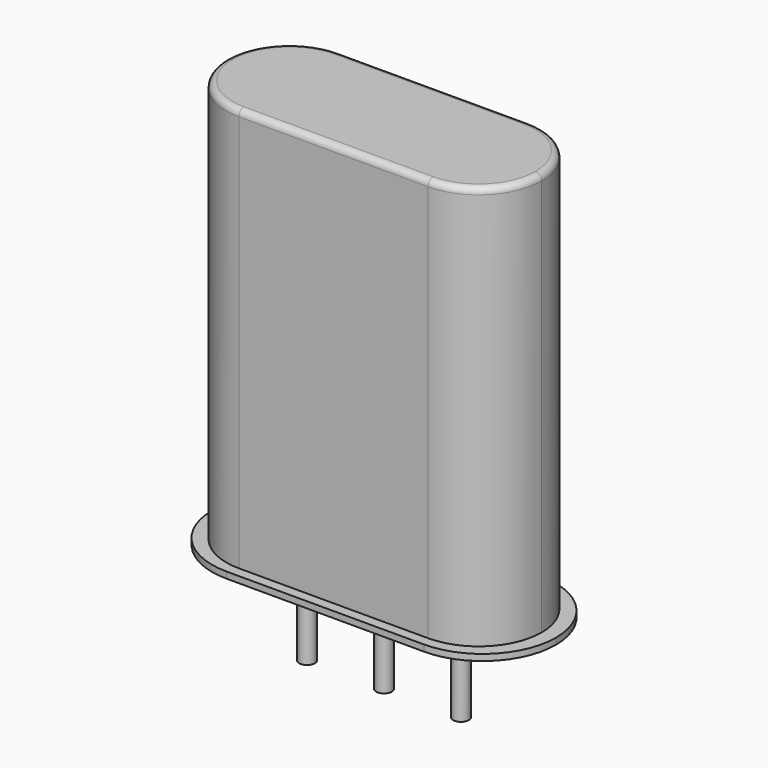
from build123d import *

# Parameters (mm, degrees)
SKETCH_R     = 0.25
PAD_DEPTH    = 3
PAD001_DEPTH = 0.2
PAD002_DEPTH = 13
FILLET_R     = 0.2


with BuildPart() as pad:
    # Sketch → Pad (new body)
    with BuildSketch(Plane.XY.offset(0.1)):
        Circle(SKETCH_R)
        with Locations((4.88, 0)):
            Circle(SKETCH_R)
        with Locations((2.44, 0)):
            Circle(SKETCH_R)
    extrude(amount=-PAD_DEPTH)


with BuildPart() as pad001:
    # Sketch001 → Pad001 (new body)
    with BuildSketch(Plane.XY.offset(0.1)):
        with BuildLine():
            Line((-0.685, 2.325), (5.565, 2.325))
            ThreePointArc((7.89, 0), (7.209023, 1.644023), (5.565, 2.325))
            ThreePointArc((5.565, -2.325), (7.209023, -1.644023), (7.89, 0))
            Line((5.565, -2.325), (-0.685, -2.325))
            ThreePointArc((-3.01, 0), (-2.329023, -1.644023), (-0.685, -2.325))
            ThreePointArc((-0.685, 2.325), (-2.329023, 1.644023), (-3.01, 0))
        make_face()
    extrude(amount=PAD001_DEPTH)


with BuildPart() as fillet_body:
    # Sketch003 → Pad002 (new body)
    with BuildSketch(Plane.XY.offset(0.1)):
        with BuildLine():
            Line((-0.56, 2), (5.44, 2))
            ThreePointArc((7.44, 0), (6.854214, 1.414214), (5.44, 2))
            ThreePointArc((5.44, -2), (6.854214, -1.414214), (7.44, 0))
            Line((5.44, -2), (-0.56, -2))
            ThreePointArc((-2.56, 0), (-1.974214, -1.414214), (-0.56, -2))
            ThreePointArc((-0.56, 2), (-1.974214, 1.414214), (-2.56, 0))
        make_face()
    extrude(amount=PAD002_DEPTH)

    # Fillet
    fillet_edges = [fillet_body.edges().sort_by_distance(p)[0] for p in [
        (2.44, 2, 13.1),
        (-1.974214, 1.414214, 13.1),
        (-1.974214, -1.414214, 13.1),
        (2.44, -2, 13.1),
        (6.854214, -1.414214, 13.1),
        (6.854214, 1.414214, 13.1),
    ]]
    fillet(fillet_edges, radius=FILLET_R)


solid = Compound([pad.part, pad001.part, fillet_body.part])
